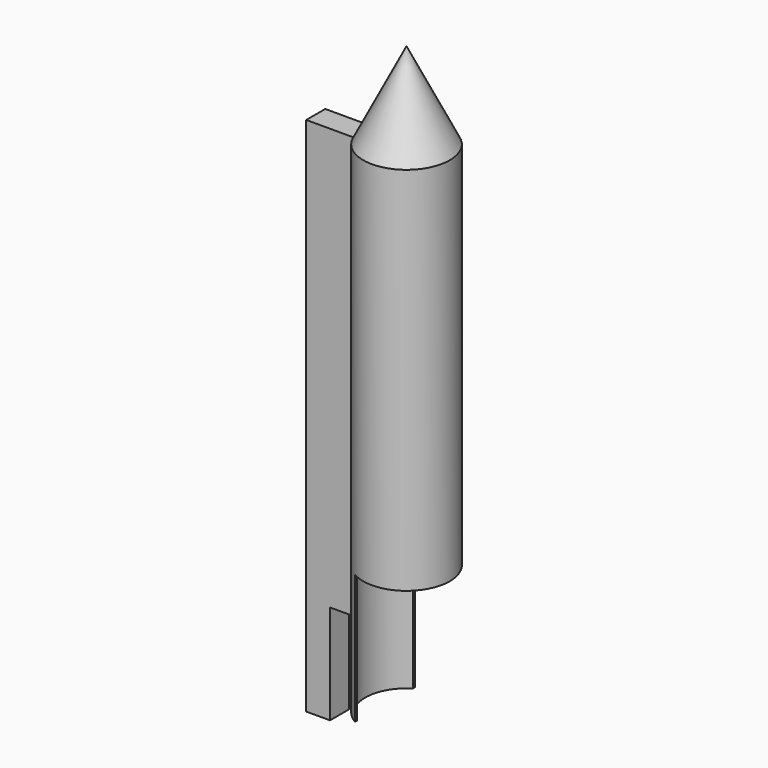
from build123d import *

# Parameters (mm, degrees)
F0_R     = 40
F0_R_2   = 38
F1_DEPTH = 460
F2_W     = 60
F2_H     = 120
F3_DEPTH = 45
F7_DEPTH = 11


with BuildPart() as f1:
    # F0 (on Top) → F1 (new body)
    with BuildSketch(Plane.XY):
        Circle(F0_R)
        Circle(F0_R_2, mode=Mode.SUBTRACT)
    extrude(amount=F1_DEPTH)

    # F2 (on Front) → F3 (cut, symmetric)
    with BuildSketch(Plane.XZ):
        with Locations((10, 60)):
            Rectangle(F2_W, F2_H)
    extrude(amount=F3_DEPTH, both=True, mode=Mode.SUBTRACT)

    # F4 (on Front) → F5 (revolve)
    with BuildSketch(Plane.XZ):
        Polygon((40, 463), (0, 543), (0, 536.291796), (38.145898, 460), (40, 460), align=None)
    revolve(axis=Axis((0, 0, 539.645898), (0, 0, -1)))

    # F6 (on Front) → F7 (join, symmetric)
    with BuildSketch(Plane.XZ):
        Polygon((-84, 460), (-84, -22), (-62, -22), (-62, 70), (-40, 70), (-40, 460), align=None)
    extrude(amount=F7_DEPTH, both=True)


solid = f1.part
